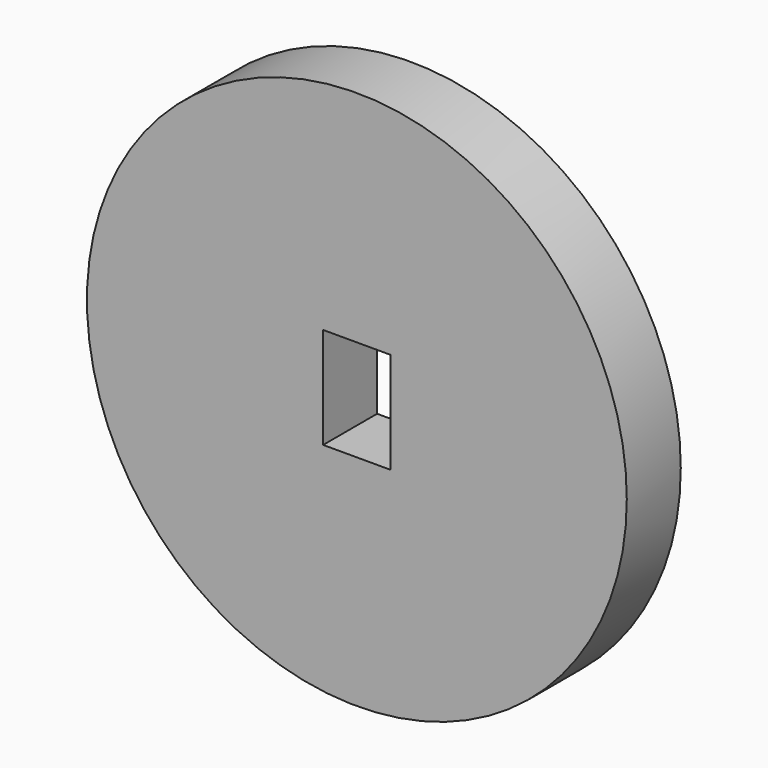
from build123d import *

# Parameters (mm, degrees)
F0_R     = 101.6
F1_DEPTH = 25.4


with BuildPart() as f1:
    # F0 (on Front) → F1 (new body)
    with BuildSketch(Plane.XZ):
        Circle(F0_R)
        Polygon((-12.69949, -19.163814), (-12.69949, -0.113814), (-12.69949, 18.936186), (12.70051, 18.936186), (12.7, -19.163814), align=None, mode=Mode.SUBTRACT)
    extrude(amount=F1_DEPTH)


solid = f1.part
